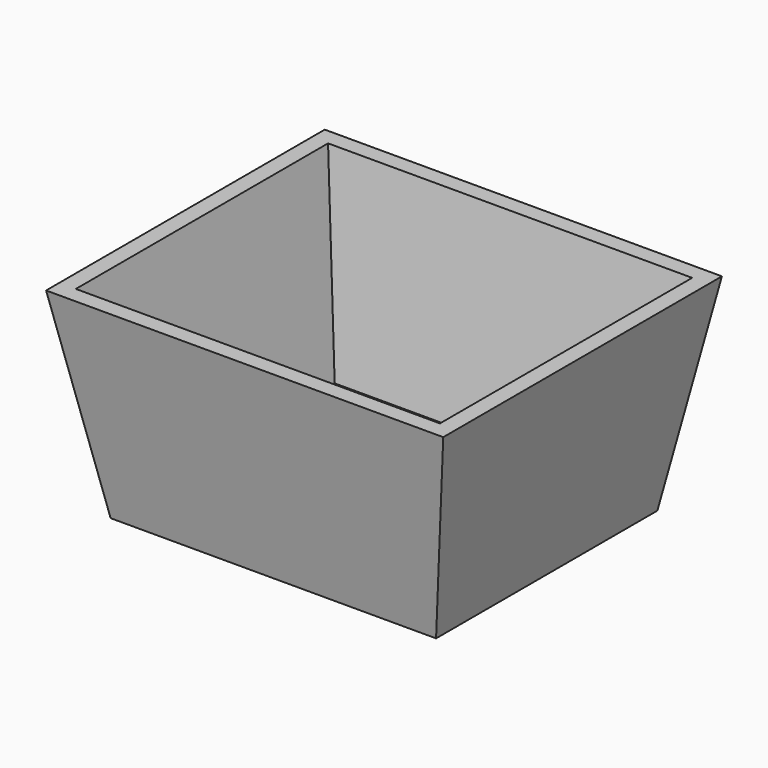
from build123d import *

# Parameters (mm, degrees)
F1_DEPTH = 25
F1_TAPER = -10
F2_T     = -2
F3_R     = 1.5
F4_DEPTH = 25


with BuildPart() as f1:
    # F0 (on Top) → F1 (new body)
    with BuildSketch(Plane.XY):
        Polygon((0, 13), (0, 0), (8, 0), (13, 0), (27, 0), (32, 0), (40, 0), (40, 13), (40, 21), (40, 34), (32, 34), (27, 34), (13, 34), (8, 34), (0, 34), (0, 21), align=None)
    extrude(amount=F1_DEPTH, taper=F1_TAPER)

    # F2
    f2_openings = [f1.faces().sort_by_distance(p)[0] for p in [
        (20, 17, 25),
    ]]
    offset(amount=F2_T, openings=f2_openings)

    # F3 (on face) → F4 (cut)
    with BuildSketch(Plane.XY.offset(2)):
        with Locations((20, 17)):
            Circle(F3_R)
    extrude(amount=-F4_DEPTH, mode=Mode.SUBTRACT)


solid = f1.part
